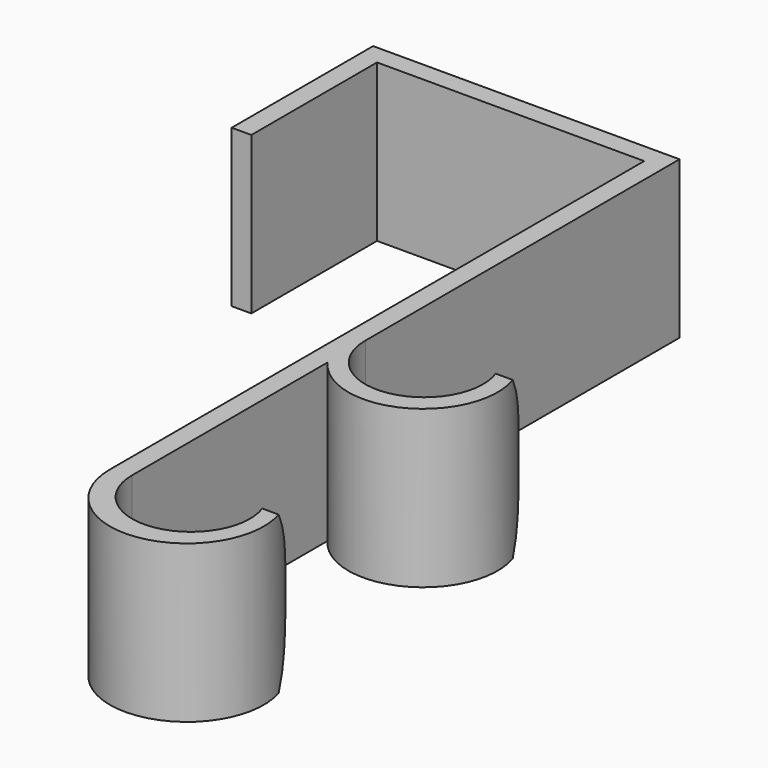
from build123d import *

# Parameters (mm, degrees)
F1_DEPTH = 20
F3_DEPTH = 25


with BuildPart() as f1:
    # F0 (on Top) → F1 (new body)
    with BuildSketch(Plane.XY):
        with BuildLine():
            Line((-44.282131, 54.770813), (-41.782131, 54.770813))
            Line((-41.782131, 54.770813), (-41.782131, 74.770813))
            Line((-41.782131, 74.770813), (-7.782131, 74.770813))
            Line((-7.782131, 74.770813), (-7.782131, -10.229187))
            ThreePointArc((-7.782131, -10.229187), (5.096254, -19.53314), (9.883899, -4.384054))
            Line((9.883899, -4.384054), (7.383899, -4.384054))
            ThreePointArc((7.383899, -4.384054), (5.176312, -16.713013), (-5.282131, -9.821161))
            Line((-5.282131, -9.821161), (-5.282131, 21.270813))
            ThreePointArc((-5.282131, 21.270813), (8.150074, 19.233123), (9.883899, 32.707921))
            Line((9.883899, 32.707921), (7.383899, 32.707921))
            ThreePointArc((7.383899, 32.707921), (5.176312, 20.378962), (-5.282131, 27.270813))
            Line((-5.282131, 27.270813), (-5.282131, 77.270813))
            Line((-5.282131, 77.270813), (-44.282131, 77.270813))
            Line((-44.282131, 77.270813), (-44.282131, 54.770813))
        make_face()
    extrude(amount=F1_DEPTH)

    # F2 (on Right) → F3 (cut)
    with BuildSketch(Plane.YZ):
        with BuildLine():
            ThreePointArc((29.830292, 20), (32.809802, 10), (29.830292, 0))
            Line((29.830292, 0), (34.945395, 0))
            Line((34.945395, 0), (34.945395, 20))
            Line((34.945395, 20), (29.830292, 20))
        make_face()
        with BuildLine():
            ThreePointArc((-7.330649, 20), (-4.351139, 10), (-7.330649, 0))
            Line((-7.330649, 0), (-2.215546, 0))
            Line((-2.215546, 0), (-2.215546, 20))
            Line((-2.215546, 20), (-7.330649, 20))
        make_face()
    extrude(amount=F3_DEPTH, mode=Mode.SUBTRACT)


solid = f1.part
